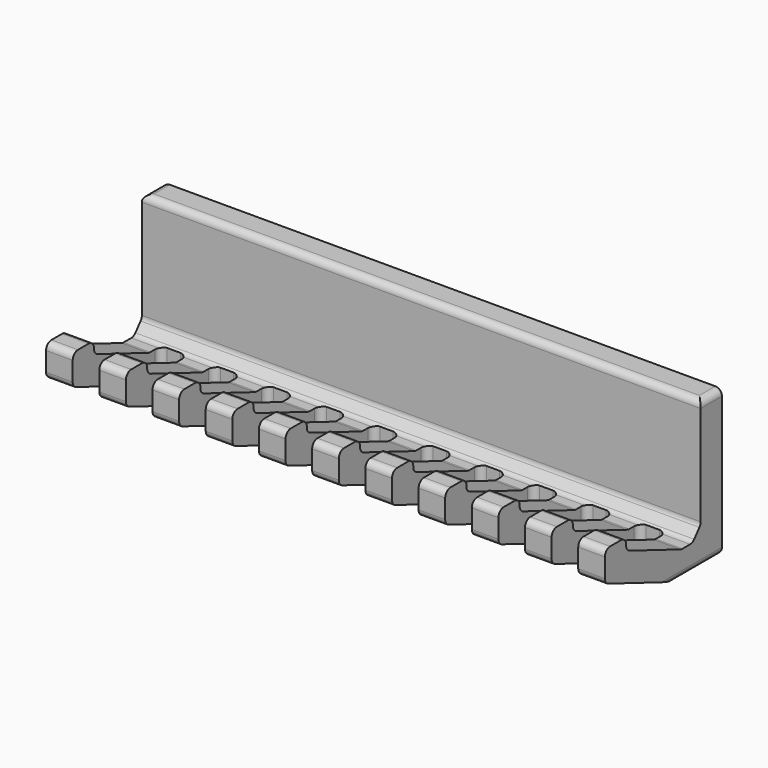
from build123d import *

# Parameters (mm, degrees)
F1_DEPTH = 84
F3_R     = 1
F4_DEPTH = 25


with BuildPart() as f1:
    # F0 (on Right) → F1 (new body)
    with BuildSketch(Plane.YZ):
        Polygon((-8.806284, 0), (0, 0), (0, 22), (-4, 22), (-4, 5.639042), (-5.518266, 3.829642), (-7.618104, 3.829642), (-18, 7.862593), (-18, 9.66795), (-22, 9.66795), (-22, 5.125231), align=None)
    extrude(amount=F1_DEPTH)

    # F3
    f3_edges = [f1.edges().sort_by_distance(p)[0] for p in [
        (42, -22, 9.66795),
        (42, -18, 9.66795),
        (42, -22, 5.125231),
        (42, -18, 7.862593),
        (42, -5.518266, 3.829642),
        (42, -7.618104, 3.829642),
        (42, -4, 5.639042),
        (42, -4, 22),
        (0, -2, 22),
        (84, -2, 22),
        (0, -4.403142, 0),
        (84, -4.403142, 0),
        (42, -8.806284, 0),
    ]]
    fillet(f3_edges, radius=F3_R)

    # F2 (on face) → F4 (cut)
    with BuildSketch(Plane.XY.offset(9.66795)):
        with BuildLine():
            Line((4, -6.518266), (4, -22))
            Line((4, -22), (8, -22))
            Line((8, -22), (8, -6.518266))
            ThreePointArc((8, -6.518266), (7.707107, -5.81116), (7, -5.518266))
            Line((7, -5.518266), (5, -5.518266))
            ThreePointArc((5, -5.518266), (4.292893, -5.81116), (4, -6.518266))
        make_face()
        with BuildLine():
            Line((12, -6.518266), (12, -22))
            Line((12, -22), (16, -22))
            Line((16, -22), (16, -6.518266))
            ThreePointArc((16, -6.518266), (15.707107, -5.81116), (15, -5.518266))
            Line((15, -5.518266), (13, -5.518266))
            ThreePointArc((13, -5.518266), (12.292893, -5.81116), (12, -6.518266))
        make_face()
        with BuildLine():
            Line((20, -6.518266), (20, -22))
            Line((20, -22), (24, -22))
            Line((24, -22), (24, -6.518266))
            ThreePointArc((24, -6.518266), (23.707107, -5.81116), (23, -5.518266))
            Line((23, -5.518266), (21, -5.518266))
            ThreePointArc((21, -5.518266), (20.292893, -5.81116), (20, -6.518266))
        make_face()
        with BuildLine():
            Line((28, -6.518266), (28, -22))
            Line((28, -22), (32, -22))
            Line((32, -22), (32, -6.518266))
            ThreePointArc((32, -6.518266), (31.707107, -5.81116), (31, -5.518266))
            Line((31, -5.518266), (29, -5.518266))
            ThreePointArc((29, -5.518266), (28.292893, -5.81116), (28, -6.518266))
        make_face()
        with BuildLine():
            Line((36, -6.518266), (36, -22))
            Line((36, -22), (40, -22))
            Line((40, -22), (40, -6.518266))
            ThreePointArc((40, -6.518266), (39.707107, -5.81116), (39, -5.518266))
            Line((39, -5.518266), (37, -5.518266))
            ThreePointArc((37, -5.518266), (36.292893, -5.81116), (36, -6.518266))
        make_face()
        with BuildLine():
            Line((44, -6.518266), (44, -22))
            Line((44, -22), (48, -22))
            Line((48, -22), (48, -6.518266))
            ThreePointArc((48, -6.518266), (47.707107, -5.81116), (47, -5.518266))
            Line((47, -5.518266), (45, -5.518266))
            ThreePointArc((45, -5.518266), (44.292893, -5.81116), (44, -6.518266))
        make_face()
        with BuildLine():
            Line((52, -6.518266), (52, -22))
            Line((52, -22), (56, -22))
            Line((56, -22), (56, -6.518266))
            ThreePointArc((56, -6.518266), (55.707107, -5.81116), (55, -5.518266))
            Line((55, -5.518266), (53, -5.518266))
            ThreePointArc((53, -5.518266), (52.292893, -5.81116), (52, -6.518266))
        make_face()
        with BuildLine():
            Line((60, -6.518266), (60, -22))
            Line((60, -22), (64, -22))
            Line((64, -22), (64, -6.518266))
            ThreePointArc((64, -6.518266), (63.707107, -5.81116), (63, -5.518266))
            Line((63, -5.518266), (61, -5.518266))
            ThreePointArc((61, -5.518266), (60.292893, -5.81116), (60, -6.518266))
        make_face()
        with BuildLine():
            Line((68, -6.518266), (68, -22))
            Line((68, -22), (72, -22))
            Line((72, -22), (72, -6.518266))
            ThreePointArc((72, -6.518266), (71.707107, -5.81116), (71, -5.518266))
            Line((71, -5.518266), (69, -5.518266))
            ThreePointArc((69, -5.518266), (68.292893, -5.81116), (68, -6.518266))
        make_face()
        with BuildLine():
            Line((76, -6.518266), (76, -22))
            Line((76, -22), (80, -22))
            Line((80, -22), (80, -6.518266))
            ThreePointArc((80, -6.518266), (79.707107, -5.81116), (79, -5.518266))
            Line((79, -5.518266), (77, -5.518266))
            ThreePointArc((77, -5.518266), (76.292893, -5.81116), (76, -6.518266))
        make_face()
    extrude(amount=-F4_DEPTH, mode=Mode.SUBTRACT)


solid = f1.part
